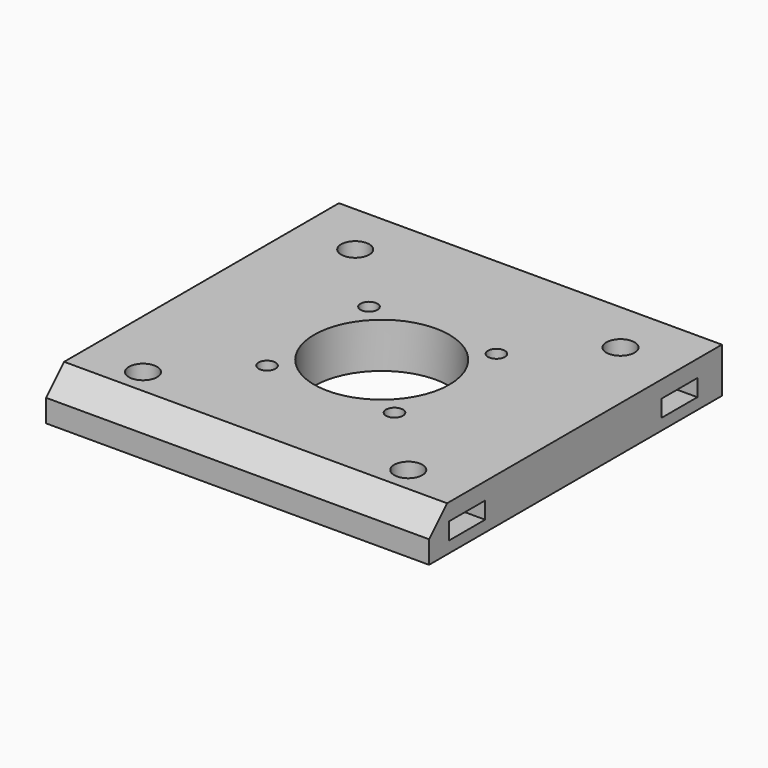
from build123d import *

# Parameters (mm, degrees)
CYLINDER1852_R              = 3
CYLINDER1852_DEPTH          = 3
CYLINDER1853_R              = 3
CYLINDER1853_DEPTH          = 3
CYLINDER1854_R              = 3
CYLINDER1854_DEPTH          = 3
CYLINDER1851_R              = 3
CYLINDER1851_DEPTH          = 3
COMPOUND933_ROLL_ANGLE      = 90
COMPOUND933_PLACEMENT_ANGLE = 45
CYLINDER1848_R              = 1.5
CYLINDER1848_DEPTH          = 40
CYLINDER1850_R              = 1.5
CYLINDER1850_DEPTH          = 40
CYLINDER1849_R              = 1.5
CYLINDER1849_DEPTH          = 40
CYLINDER1847_R              = 1.5
CYLINDER1847_DEPTH          = 40
COMPOUND925_ROLL_ANGLE      = 90
COMPOUND925_PLACEMENT_ANGLE = 45
CYLINDER1867_R              = 12
CYLINDER1867_DEPTH          = 20
CYLINDER1866_R              = 2.5
CYLINDER1866_DEPTH          = 20
CYLINDER1864_R              = 2.5
CYLINDER1864_DEPTH          = 20
CYLINDER1863_R              = 2.5
CYLINDER1863_DEPTH          = 20
CYLINDER1865_R              = 2.5
CYLINDER1865_DEPTH          = 20
BOX324_W                    = 20
BOX324_H                    = 8
BOX324_DEPTH                = 3
BOX328_W                    = 20
BOX328_H                    = 8
BOX328_DEPTH                = 3
BOX330_W                    = 20
BOX330_H                    = 8
BOX330_DEPTH                = 3
BOX323_W                    = 20
BOX323_H                    = 8
BOX323_DEPTH                = 3
BOX329_W                    = 68
BOX329_H                    = 65
BOX329_DEPTH                = 8
CHAMFER014_SIZE             = 4


with BuildPart() as obj1:
    # Cylinder1852 → Cylinder1852 (new body)
    with BuildSketch(Plane(origin=(16, 140, 49), x_dir=(1, 0, 0), z_dir=(0, -1, 0))):
        Circle(CYLINDER1852_R)
    extrude(amount=CYLINDER1852_DEPTH)


with BuildPart() as obj2:
    # Cylinder1853 → Cylinder1853 (new body)
    with BuildSketch(Plane(origin=(-16, 140, 49), x_dir=(1, 0, 0), z_dir=(0, -1, 0))):
        Circle(CYLINDER1853_R)
    extrude(amount=CYLINDER1853_DEPTH)


with BuildPart() as obj3:
    # Cylinder1854 → Cylinder1854 (new body)
    with BuildSketch(Plane(origin=(0, 140, 33), x_dir=(1, 0, 0), z_dir=(0, -1, 0))):
        Circle(CYLINDER1854_R)
    extrude(amount=CYLINDER1854_DEPTH)


with BuildPart() as compound933:
    # Cylinder1851 → Cylinder1851 (new body)
    with BuildSketch(Plane(origin=(0, 140, 65), x_dir=(1, 0, 0), z_dir=(0, -1, 0))):
        Circle(CYLINDER1851_R)
    extrude(amount=CYLINDER1851_DEPTH)

    # Compound933: union obj1, obj2, obj3
    add(obj1.part)
    add(obj2.part)
    add(obj3.part)


with BuildPart() as compound933_1:
    # Compound933 roll: moved
    add(compound933.part.rotate(Axis((0, 0, 0), (1, 0, 0)), COMPOUND933_ROLL_ANGLE))


with BuildPart() as compound933_2:
    # Compound933 placement: moved
    add(compound933_1.part.moved(Location((-34.65, 34.65, -167))).rotate(Axis((-34.65, 34.65, -167), (0, 0, 1)), COMPOUND933_PLACEMENT_ANGLE))


with BuildPart() as obj4:
    # Cylinder1848 → Cylinder1848 (new body)
    with BuildSketch(Plane(origin=(16, 140, 49), x_dir=(1, 0, 0), z_dir=(0, -1, 0))):
        Circle(CYLINDER1848_R)
    extrude(amount=CYLINDER1848_DEPTH)


with BuildPart() as obj5:
    # Cylinder1850 → Cylinder1850 (new body)
    with BuildSketch(Plane(origin=(-16, 140, 49), x_dir=(1, 0, 0), z_dir=(0, -1, 0))):
        Circle(CYLINDER1850_R)
    extrude(amount=CYLINDER1850_DEPTH)


with BuildPart() as obj6:
    # Cylinder1849 → Cylinder1849 (new body)
    with BuildSketch(Plane(origin=(0, 140, 33), x_dir=(1, 0, 0), z_dir=(0, -1, 0))):
        Circle(CYLINDER1849_R)
    extrude(amount=CYLINDER1849_DEPTH)


with BuildPart() as compound925:
    # Cylinder1847 → Cylinder1847 (new body)
    with BuildSketch(Plane(origin=(0, 140, 65), x_dir=(1, 0, 0), z_dir=(0, -1, 0))):
        Circle(CYLINDER1847_R)
    extrude(amount=CYLINDER1847_DEPTH)

    # Compound925: union obj4, obj5, obj6
    add(obj4.part)
    add(obj5.part)
    add(obj6.part)


with BuildPart() as compound925_1:
    # Compound925 roll: moved
    add(compound925.part.rotate(Axis((0, 0, 0), (1, 0, 0)), COMPOUND925_ROLL_ANGLE))


with BuildPart() as compound925_2:
    # Compound925 placement: moved
    add(compound925_1.part.moved(Location((-34.65, 34.65, -144))).rotate(Axis((-34.65, 34.65, -144), (0, 0, 1)), COMPOUND925_PLACEMENT_ANGLE))


with BuildPart() as obj7:
    # Cylinder1867 → Cylinder1867 (new body)
    with BuildSketch(Plane.XY.offset(-39)):
        Circle(CYLINDER1867_R)
    extrude(amount=CYLINDER1867_DEPTH)


with BuildPart() as obj8:
    # Cylinder1866 → Cylinder1866 (new body)
    with BuildSketch(Plane(origin=(-23.55, 23.55, -34), x_dir=(1, 0, 0), z_dir=(0, 0, 1))):
        Circle(CYLINDER1866_R)
    extrude(amount=CYLINDER1866_DEPTH)


with BuildPart() as obj9:
    # Cylinder1864 → Cylinder1864 (new body)
    with BuildSketch(Plane(origin=(-23.55, -23.55, -34), x_dir=(1, 0, 0), z_dir=(0, 0, 1))):
        Circle(CYLINDER1864_R)
    extrude(amount=CYLINDER1864_DEPTH)


with BuildPart() as obj10:
    # Cylinder1863 → Cylinder1863 (new body)
    with BuildSketch(Plane(origin=(23.55, -23.55, -34), x_dir=(1, 0, 0), z_dir=(0, 0, 1))):
        Circle(CYLINDER1863_R)
    extrude(amount=CYLINDER1863_DEPTH)


with BuildPart() as compound931:
    # Cylinder1865 → Cylinder1865 (new body)
    with BuildSketch(Plane(origin=(23.55, 23.55, -34), x_dir=(1, 0, 0), z_dir=(0, 0, 1))):
        Circle(CYLINDER1865_R)
    extrude(amount=CYLINDER1865_DEPTH)

    # Compound931: union obj8, obj9, obj10
    add(obj8.part)
    add(obj9.part)
    add(obj10.part)


with BuildPart() as krychle324:
    # Box324 → Box324 (new body)
    with BuildSketch(Plane(origin=(17.55, -27.55, -28), x_dir=(1, 0, 0), z_dir=(0, 0, 1))):
        with Locations((10, 4)):
            Rectangle(BOX324_W, BOX324_H)
    extrude(amount=BOX324_DEPTH)


with BuildPart() as krychle328:
    # Box328 → Box328 (new body)
    with BuildSketch(Plane(origin=(-37.45, 19.55, -28), x_dir=(1, 0, 0), z_dir=(0, 0, 1))):
        with Locations((10, 4)):
            Rectangle(BOX328_W, BOX328_H)
    extrude(amount=BOX328_DEPTH)


with BuildPart() as krychle330:
    # Box330 → Box330 (new body)
    with BuildSketch(Plane(origin=(-37.45, -27.55, -28), x_dir=(1, 0, 0), z_dir=(0, 0, 1))):
        with Locations((10, 4)):
            Rectangle(BOX330_W, BOX330_H)
    extrude(amount=BOX330_DEPTH)


with BuildPart() as compound932:
    # Box323 → Box323 (new body)
    with BuildSketch(Plane(origin=(17.55, 19.55, -28), x_dir=(1, 0, 0), z_dir=(0, 0, 1))):
        with Locations((10, 4)):
            Rectangle(BOX323_W, BOX323_H)
    extrude(amount=BOX323_DEPTH)

    # Compound932: union Krychle324, Krychle328, Krychle330
    add(krychle324.part)
    add(krychle328.part)
    add(krychle330.part)


with BuildPart() as chamfer014:
    # Box329 → Box329 (new body)
    with BuildSketch(Plane(origin=(-34, -32, -30), x_dir=(1, 0, 0), z_dir=(0, 0, 1))):
        with Locations((34, 32.5)):
            Rectangle(BOX329_W, BOX329_H)
    extrude(amount=BOX329_DEPTH)

    # Cut314: cut Compound932
    add(compound932.part, mode=Mode.SUBTRACT)

    # Cut317: cut Compound931
    add(compound931.part, mode=Mode.SUBTRACT)

    # Cut315: cut obj7
    add(obj7.part, mode=Mode.SUBTRACT)

    # Cut319: cut Compound925
    add(compound925_2.part, mode=Mode.SUBTRACT)

    # Cut312: cut Compound933
    add(compound933_2.part, mode=Mode.SUBTRACT)

    # Chamfer014
    chamfer014_edges = [chamfer014.edges().sort_by_distance(p)[0] for p in [
        (0, -32, -22),
    ]]
    chamfer(chamfer014_edges, length=CHAMFER014_SIZE)


solid = chamfer014.part
